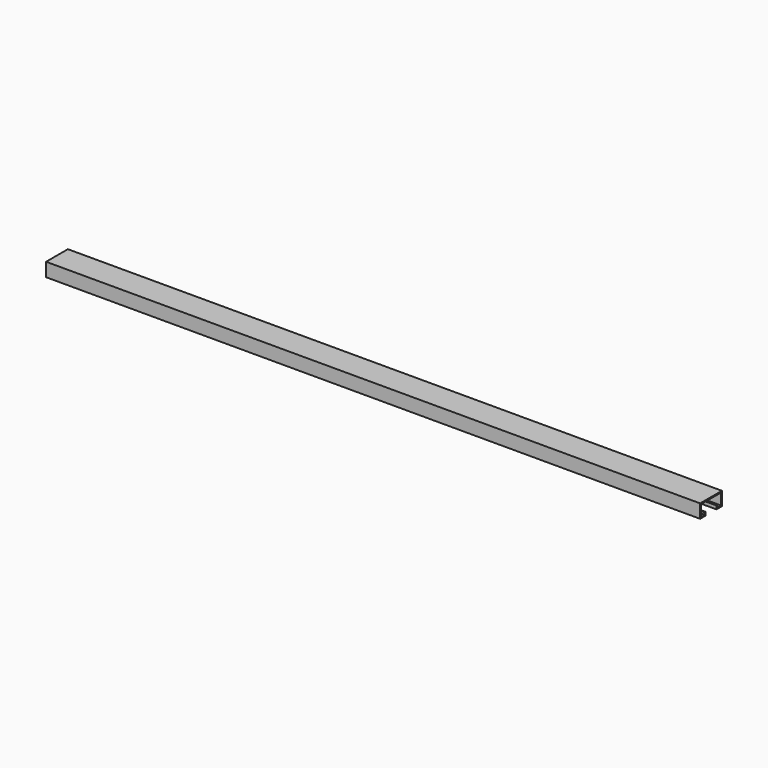
from build123d import *

# Parameters (mm, degrees)
F1_DEPTH = 1828.8


with BuildPart() as f1:
    # F0 (on Right) → F1 (new body)
    with BuildSketch(Plane.YZ):
        Polygon((-19.05, -9.525), (-19.05, 0), (-22.225, 0), (-22.225, -6.35), (-34.925, -6.35), (-34.925, 25.4), (0, 25.4), (34.925, 25.4), (34.925, -6.35), (22.225, -6.35), (22.225, 0), (19.05, 0), (19.05, -9.525), (38.1, -9.525), (38.1, 28.575), (0, 28.575), (-38.1, 28.575), (-38.1, -9.525), align=None)
    extrude(amount=F1_DEPTH)


solid = f1.part
